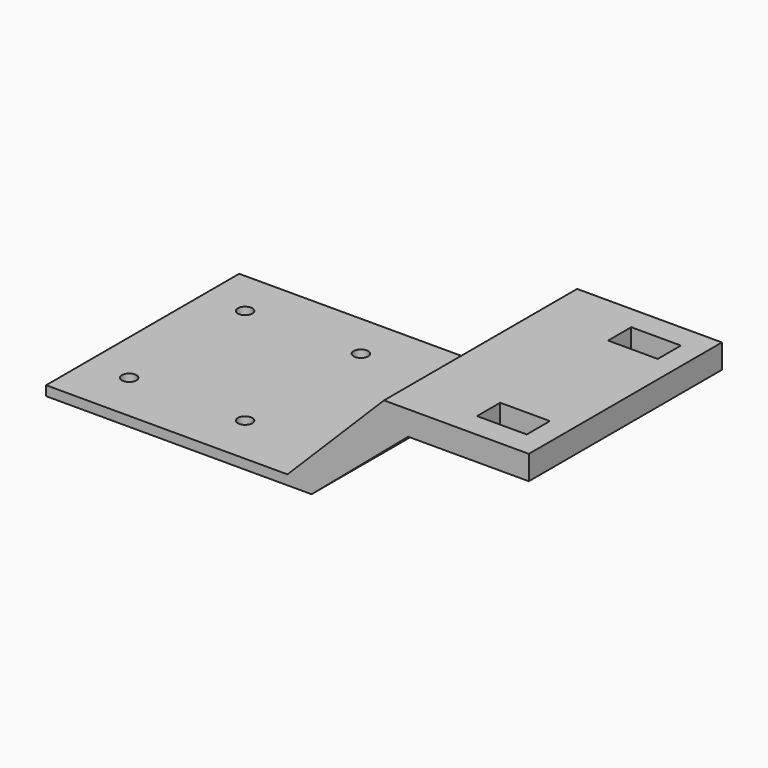
from build123d import *

# Parameters (mm, degrees)
F0_W      = 50
F0_H      = 50
F1_DEPTH  = 2
F2_W      = 25
F2_H      = 50
F3_DEPTH  = 20
F4_W      = 50
F4_H      = 5
F5_DEPTH  = 25
F7_DEPTH  = 50
F8_W      = 3.329061
F8_H      = 5
F8_W_2    = 10.3
F8_H_2    = 6
F9_DEPTH  = 50
F10_W     = 3.329061
F10_H     = 5
F11_DEPTH = 5
F13_DEPTH = 50
F14_W     = 50
F14_H     = 2
F15_DEPTH = 25
F16_R     = 1.5
F17_DEPTH = 50


with BuildPart() as f1:
    # F0 (on Top) → F1 (new body)
    with BuildSketch(Plane.XY):
        with Locations((25, -25)):
            Rectangle(F0_W, F0_H)
    extrude(amount=F1_DEPTH)

    # F2 (on face) → F3 (join)
    with BuildSketch(Plane.XY.offset(2)):
        with Locations((37.5, -25)):
            Rectangle(F2_W, F2_H)
    extrude(amount=F3_DEPTH)

    # F4 (on face) → F5 (join)
    with BuildSketch(Plane.YZ.offset(50)):
        with Locations((-25, 19.5)):
            Rectangle(F4_W, F4_H)
    extrude(amount=F5_DEPTH)

    # F6 (on face) → F7 (cut)
    with BuildSketch(Plane.XZ.offset(50)):
        Polygon((45, 22), (25, 22), (25, 2), align=None)
    extrude(amount=-F7_DEPTH, mode=Mode.SUBTRACT)

    # F8 (on face) → F9 (cut)
    with BuildSketch(Plane(origin=(0, 0, 17), x_dir=(1, 0, 0), z_dir=(0, 0, -1))):
        Polygon((70.513144, 11), (60.213144, 11), (60.213144, 5), (62.5, 5), (65.829061, 5), (70.513144, 5), align=None)
        with Locations((64.16453, 2.5)):
            Rectangle(F8_W, F8_H)
        with Locations((65.336539, 41.898386)):
            Rectangle(F8_W_2, F8_H_2)
    extrude(amount=-F9_DEPTH, mode=Mode.SUBTRACT)

    # F10 (on face) → F11 (join)
    with BuildSketch(Plane(origin=(0, 0, 17), x_dir=(1, 0, 0), z_dir=(0, 0, -1))):
        with Locations((64.16453, 2.5)):
            Rectangle(F10_W, F10_H)
    extrude(amount=-F11_DEPTH)

    # F12 (on face) → F13 (cut)
    with BuildSketch(Plane(origin=(0, 0, 0), x_dir=(-1, 0, 0), z_dir=(0, 1, 0))):
        Polygon((-30, 0), (-50, 17), (-50, 0), align=None)
    extrude(amount=-F13_DEPTH, mode=Mode.SUBTRACT)

    # F14 (on face) → F15 (join)
    with BuildSketch(Plane(origin=(0, 0, 0), x_dir=(0, -1, 0), z_dir=(-1, 0, 0))):
        with Locations((25, 1)):
            Rectangle(F14_W, F14_H)
    extrude(amount=F15_DEPTH)

    # F16 (on face) → F17 (cut)
    with BuildSketch(Plane.XY.offset(2)):
        with Locations((-16.127206, -9.57024)):
            Circle(F16_R)
        with Locations((7.872794, -9.57024)):
            Circle(F16_R)
        with Locations((7.872794, -39.57024)):
            Circle(F16_R)
        with Locations((-16.127206, -39.57024)):
            Circle(F16_R)
    extrude(amount=-F17_DEPTH, mode=Mode.SUBTRACT)


solid = f1.part
